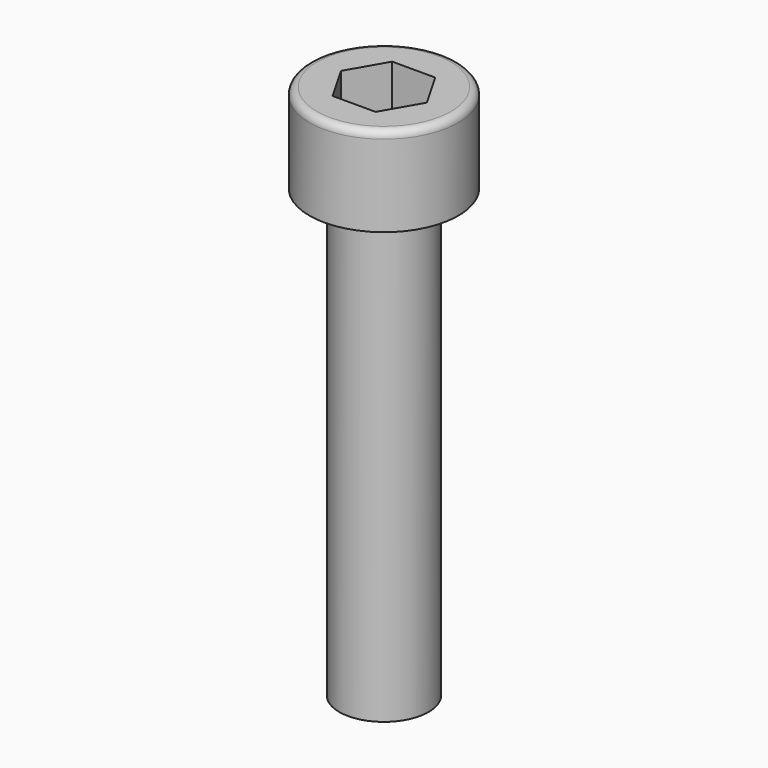
from build123d import *

# Parameters (mm, degrees)
F3_DEPTH = 3
F4_R     = 0.5


with BuildPart() as f1:
    # F0 (on Front) → F1 (revolve)
    with BuildSketch(Plane.XZ):
        Polygon((-3, -30), (0, -30), (0, 6), (-5, 6), (-5, 0), (-3, 0), align=None)
    revolve(axis=Axis((0, 0, -12), (0, 0, -1)))

    # F2 (on face) → F3 (cut)
    with BuildSketch(Plane.XY.offset(6)):
        Polygon((1.443376, 2.5), (-1.443376, 2.5), (-2.886751, 0), (-1.443376, -2.5), (1.443376, -2.5), (2.886751, 0), align=None)
    extrude(amount=-F3_DEPTH, mode=Mode.SUBTRACT)

    # F4
    f4_edges = [f1.edges().sort_by_distance(p)[0] for p in [
        (5, 0, 6),
    ]]
    fillet(f4_edges, radius=F4_R)


solid = f1.part
